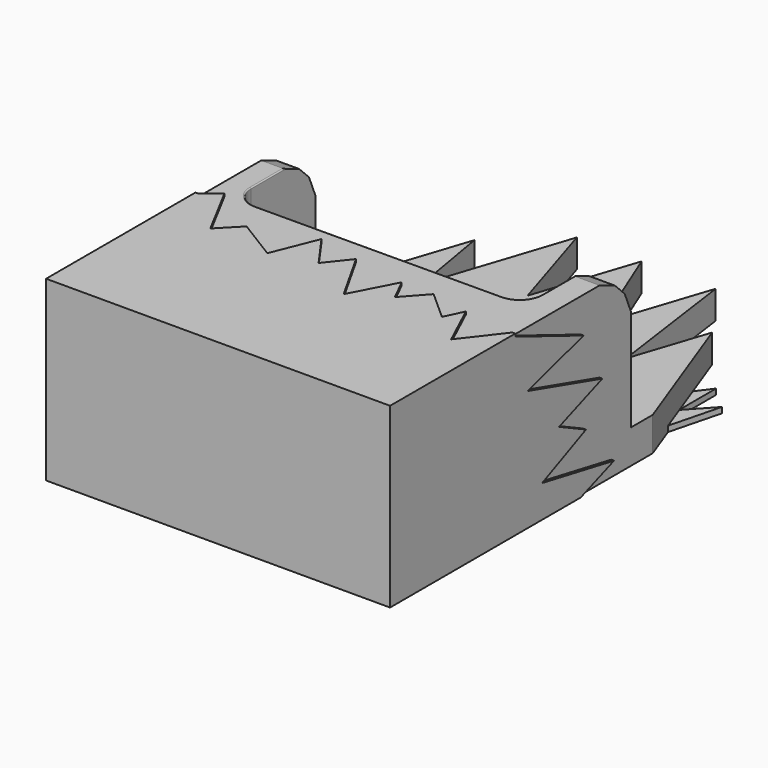
from build123d import *

# Parameters (mm, degrees)
F1_DEPTH  = 762
F3_DEPTH  = 127
F6_DEPTH  = 762.001
F8_DEPTH  = 25.4
F10_SIZE  = 127
F11_SIZE  = 50.8
F12_R     = 101.6
F13_R     = 5.08
F15_DEPTH = 12.7
F17_DEPTH = 12.7
F19_DEPTH = 12.7


with BuildPart() as f1:
    # F0 (on Top) → F1 (new body)
    with BuildSketch(Plane.XY):
        Polygon((-3498.5116661556, -1699.4458940506), (-3498.5116661556, -2613.8458940506), (-1974.5116661556, -2613.8458940506), (-1974.5116661556, -1699.4458940506), (-1974.5116661556, -1240.8709526062), (-2088.5074138641, -1240.8709526062), (-2088.5074138641, -1699.4458940506), (-3396.6603279114, -1705.0362136841), (-3396.6603279114, -1240.8709526062), (-3498.5116661556, -1240.8709526062), align=None)
    extrude(amount=F1_DEPTH)


with BuildPart() as f3:
    # F2 (on face) → F3 (new body)
    with BuildSketch(Plane(origin=(0, 0, 0), x_dir=(1, 0, 0), z_dir=(0, 0, -1))):
        Polygon((-1974.5116661556, 230.5383682251), (-1974.5116661556, 1240.8709526062), (-2088.5074138641, 1240.8709526062), (-2088.5074138641, 1699.4458940506), (-3396.6603279114, 1705.0362136841), (-3396.6603279114, 1240.8709526062), (-3496.481180191, 1240.8709526062), (-3496.481180191, 230.5383682251), align=None)
    extrude(amount=-F3_DEPTH)


with BuildPart() as f1_1:
    add(f1.part)

    # F4: union F3
    add(f3.part)

    # F5 (on face) → F6 (cut, through all)
    with BuildSketch(Plane(origin=(0, 0, 0), x_dir=(1, 0, 0), z_dir=(0, 0, -1))):
        Polygon((-2316.2273000234, 841.8166545124), (-2401.6864299774, 230.5383682251), (-1974.5116661556, 230.5383682251), (-1974.5116661556, 1119.2854642868), (-2203.1452655792, 498.7692832947), align=None)
        Polygon((-2735.4964231733, 230.5383682251), (-2401.6864299774, 230.5383682251), (-2551.6629219055, 685.5093240738), align=None)
        Polygon((-3496.481180191, 230.5383682251), (-3027.2831916809, 230.5383682251), (-3231.0576103647, 848.7115289264), (-3295.5253124237, 471.2162911892), (-3496.481180191, 1080.8390531707), align=None)
        Polygon((-3027.2831916809, 230.5383682251), (-2735.4964231733, 230.5383682251), (-2885.4729151014, 685.5093240738), align=None)
    extrude(amount=-F6_DEPTH, mode=Mode.SUBTRACT)


with BuildPart() as f8:
    # F7 (on face) → F8 (new body)
    with BuildSketch(Plane(origin=(0, 0, 0), x_dir=(1, 0, 0), z_dir=(0, 0, -1))):
        Polygon((-2905.2052497864, 390.9881711006), (-2834.7314291205, 531.5791842156), (-2885.4729151014, 685.5093240738), (-2947.5236220314, 486.4315835605), align=None)
        Polygon((-3214.7448062897, 498.7692832947), (-3141.0519449936, 575.6689801958), (-3231.0576103647, 848.7115289264), (-3264.8577193286, 650.7925747624), align=None)
        Polygon((-3413.8304513223, 830.1085511328), (-3465.3007291058, 986.2495648338), (-3496.481180191, 743.8611740208), align=None)
        Polygon((-3368.3185893378, 692.043077782), (-3396.0032463074, 776.02767218), (-3396.0032463074, 663.1536888734), align=None)
        Polygon((-2571.4828968048, 498.7692832947), (-2515.293202418, 575.1775925706), (-2551.6629219055, 685.5093240738), (-2606.951311997, 548.6756592969), align=None)
        Polygon((-2325.264623755, 490.6849679948), (-2259.4031983079, 669.4341994996), (-2316.2273000234, 841.8166545124), (-2357.9744639194, 543.2045013416), align=None)
        Polygon((-2078.1543254852, 837.9972051805), (-2128.849476835, 700.4095461938), (-2078.1543254852, 632.8159570694), align=None)
        Polygon((-2033.3765220407, 959.5250631011), (-2077.148481374, 840.727086301), (-1974.5116661556, 729.5470237732), align=None)
        Polygon((-2259.4031983079, 669.4341994996), (-2208.7411880493, 806.931912899), (-2128.849476835, 700.4095461938), (-2078.1543254852, 837.9972051805), (-2078.1543254852, 841.8166545124), (-2077.148481374, 840.727086301), (-2033.3765220407, 959.5250631011), (-1974.5116661556, 1119.2854642868), (-1974.5116661556, 2613.8458940506), (-3498.5116661556, 2613.8458940506), (-3498.5116661556, 1240.8709526062), (-3496.481180191, 1240.8709526062), (-3496.481180191, 1080.8390531707), (-3465.3007291058, 986.2495648338), (-3413.8304513223, 830.1085511328), (-3396.0032463074, 848.7115289264), (-3396.0032463074, 776.02767218), (-3368.3185893378, 692.043077782), (-3301.4554118653, 761.8158887578), (-3264.8577193286, 650.7925747624), (-3231.0576103647, 848.7115289264), (-3141.0519449936, 575.6689801958), (-3035.7921123505, 685.5093240738), (-2947.5236220314, 486.4315835605), (-2885.4729151014, 685.5093240738), (-2834.7314291205, 531.5791842156), (-2735.4964231733, 729.5470237732), (-2606.951311997, 548.6756592969), (-2551.6629219055, 685.5093240738), (-2515.293202418, 575.1775925706), (-2440.8960342407, 676.3449311256), (-2357.9744639194, 543.2045013416), (-2316.2273000234, 841.8166545124), align=None)
    extrude(amount=F8_DEPTH)

    # F9: union F1
    add(f1_1.part)

    # F10
    f10_edges = [f8.edges().sort_by_distance(p)[0] for p in [
        (-3447.585997, -1240.870953, 762),
        (-2031.50954, -1240.870953, 762),
    ]]
    chamfer(f10_edges, length=F10_SIZE)

    # F11
    f11_edges = [f8.edges().sort_by_distance(p)[0] for p in [
        (-2031.50954, -1240.870953, 635),
        (-2031.50954, -1367.870953, 762),
        (-3447.585997, -1240.870953, 635),
        (-3447.585997, -1367.870953, 762),
    ]]
    chamfer(f11_edges, length=F11_SIZE)

    # F12
    f12_edges = [f8.edges().sort_by_distance(p)[0] for p in [
        (-3396.660328, -1705.036214, 444.5),
        (-2088.507414, -1699.445894, 444.5),
    ]]
    fillet(f12_edges, radius=F12_R)

    # F13
    f13_edges = [f8.edges().sort_by_distance(p)[0] for p in [
        (-2742.149693, -1702.239198, 762),
    ]]
    fillet(f13_edges, radius=F13_R)

    # F14 (on face) → F15 (join)
    with BuildSketch(Plane.YZ.offset(-1974.5116661556)):
        Polygon((-1524.0049362183, 610.3619337082), (-1908.9328050613, 762), (-2613.8458940506, 762), (-2613.8458940506, -25.4), (-1540.454864502, -25.4), (-1352.9258966446, 44.4850027561), (-1757.5936317444, 120.1545894146), (-1510.8450651169, 232.0139855146), (-1662.1842384338, 304.3935894966), (-1418.6709526062, 396.5130746365), (-1839.8432731628, 518.242418766), align=None)
    extrude(amount=F15_DEPTH)

    # F16 (on face) → F17 (join)
    with BuildSketch(Plane(origin=(-3498.5116661556, 0, 0), x_dir=(0, -1, 0), z_dir=(-1, 0, 0))):
        Polygon((1758.8893175125, 87.9818573594), (1473.0749130249, -25.4), (2613.8458940506, -25.4), (2613.8458940506, 762), (1772.6634740829, 762), (1473.0749130249, 669.9413061142), (1803.6553859711, 611.4010214806), (1607.3732376099, 494.320422411), (1844.9779748917, 446.1107254028), (1710.6796503067, 342.8043425083), (1889.7440433502, 311.8124306202), (1617.7039146423, 184.4011843204), align=None)
    extrude(amount=F17_DEPTH)

    # F18 (on face) → F19 (join)
    with BuildSketch(Plane.XY.offset(762)):
        Polygon((-3426.700592041, -1715.4284715652), (-3498.5116661556, -1772.6634740829), (-3511.2116661556, -1772.6634740829), (-3511.2116661556, -2613.8458940506), (-1961.8116661556, -2613.8458940506), (-1961.8116661556, -1908.9328050613), (-1974.5116661556, -1908.9328050613), (-2110.2046966553, -2084.5901966095), (-2202.495098114, -1886.4371776581), (-2242.4262828624, -1971.1439244185), (-2373.5039234161, -1853.8640737534), (-2465.7943248749, -1957.012295723), (-2517.3683166504, -1853.8640737534), (-2620.51653862, -2052.0172119141), (-2753.523349762, -1815.8621788025), (-2837.6703262329, -1921.7246770859), (-2943.5329437256, -1772.6634740829), (-3024.965763092, -1976.0131835938), (-3209.5465660095, -1862.0073795319), (-3299.1225719452, -1954.2977809906), align=None)
    extrude(amount=F19_DEPTH)


solid = f8.part
